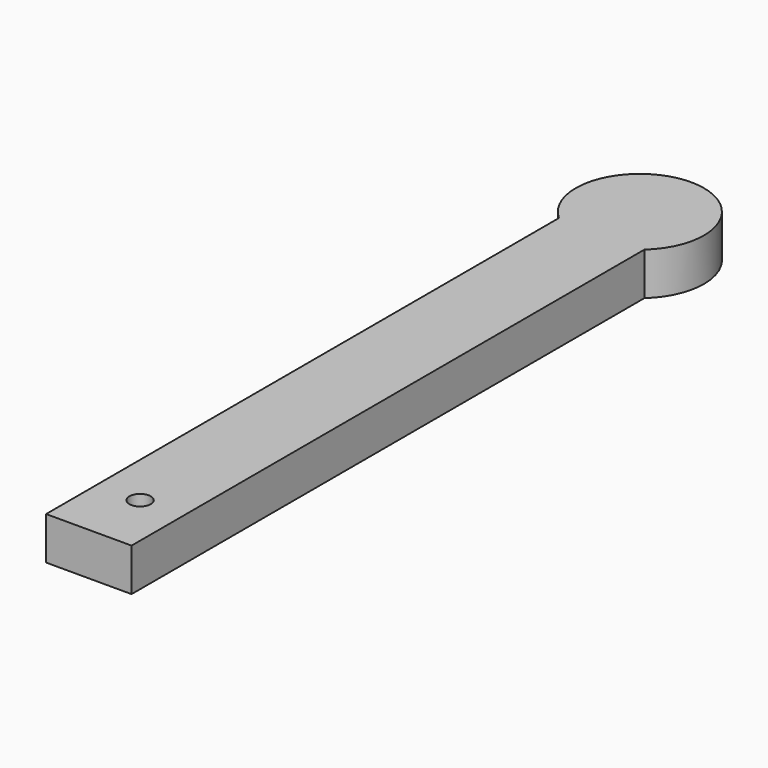
from build123d import *

# Parameters (mm, degrees)
F1_DEPTH = 20
F2_R     = 5
F3_DEPTH = 20.001


with BuildPart() as f1:
    # F0 (on Top) → F1 (new body)
    with BuildSketch(Plane.XY):
        with BuildLine():
            Line((-20, 0), (0, 0))
            Line((0, 0), (20, 0))
            Line((20, 0), (20, 300))
            ThreePointArc((20, 300), (0, 352.36068), (-20, 300))
            Line((-20, 300), (-20, 0))
        make_face()
    extrude(amount=F1_DEPTH)

    # F2 (on face) → F3 (cut, through all)
    with BuildSketch(Plane(origin=(0, 0, 0), x_dir=(1, 0, 0), z_dir=(0, 0, -1))):
        with Locations((0, -30)):
            Circle(F2_R)
    extrude(amount=-F3_DEPTH, mode=Mode.SUBTRACT)


solid = f1.part
